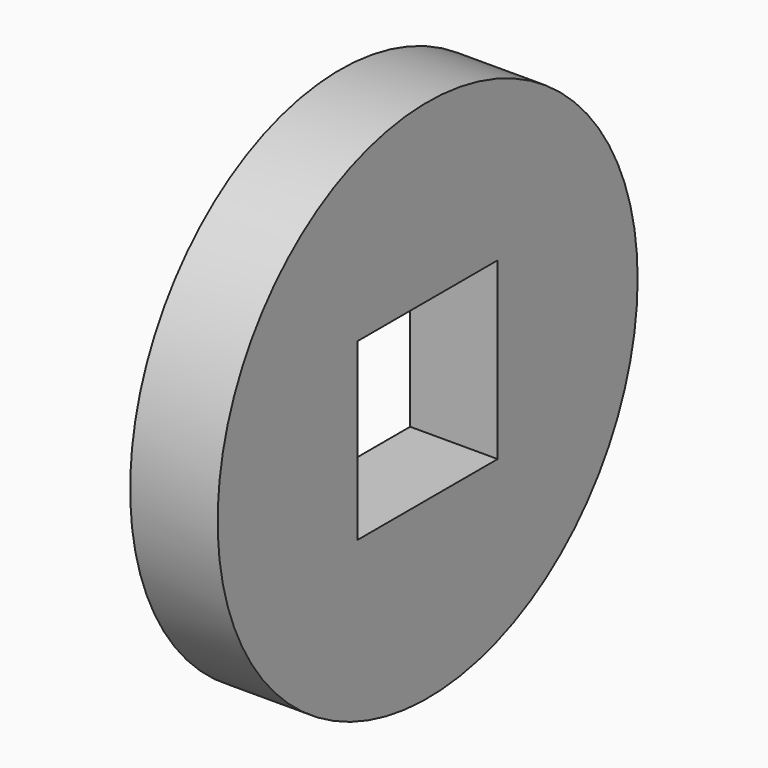
from build123d import *

# Parameters (mm, degrees)
F0_R     = 9.525
F0_W     = 6.35
F0_H     = 6.35
F1_DEPTH = 3.175


with BuildPart() as f1:
    # F0 (on Right) → F1 (new body)
    with BuildSketch(Plane.YZ):
        Circle(F0_R)
        Rectangle(F0_W, F0_H, mode=Mode.SUBTRACT)
    extrude(amount=F1_DEPTH)


solid = f1.part
